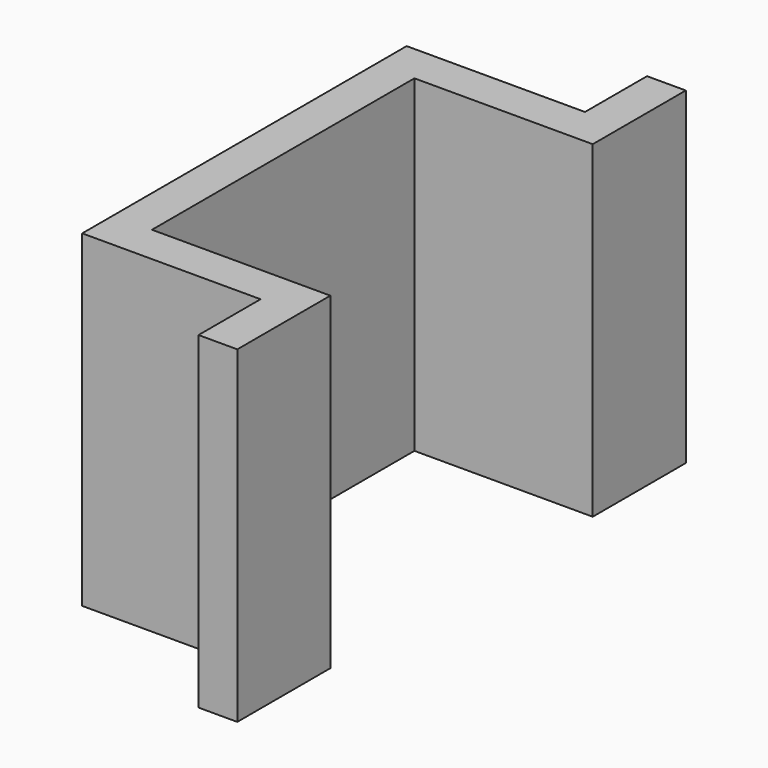
from build123d import *

# Parameters (mm, degrees)
F1_DEPTH = 21.15


with BuildPart() as f1:
    # F0 (on Top) → F1 (new body, symmetric)
    with BuildSketch(Plane.XY):
        Polygon((-23, -21.15), (-23, 0), (-23, 21.15), (0, 21.15), (0, 36.15), (-5, 36.15), (-5, 26.15), (-28, 26.15), (-28, 0), (-28, -26.15), (-5, -26.15), (-5, -36.15), (0, -36.15), (0, -21.15), align=None)
    extrude(amount=F1_DEPTH, both=True)


solid = f1.part
